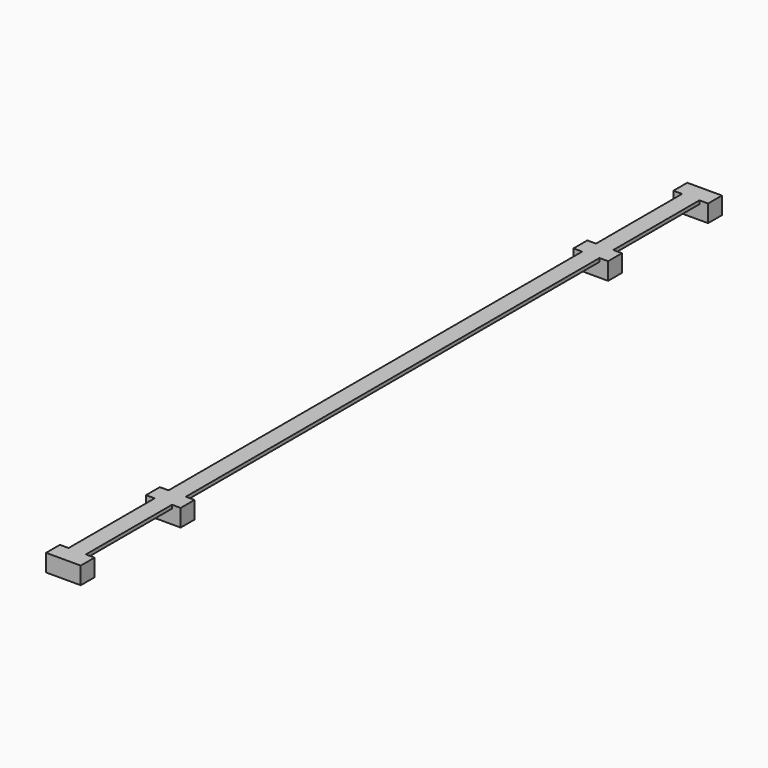
from build123d import *

# Parameters (mm, degrees)
SKETCH_W     = 4
SKETCH_H     = 0.8
PAD_DEPTH    = 185
SKETCH002_W  = 8
SKETCH002_H  = 4
PAD001_DEPTH = 4


with BuildPart() as part:
    # Sketch → Pad (new body)
    with BuildSketch(Plane.XZ):
        Rectangle(SKETCH_W, SKETCH_H)
    extrude(amount=PAD_DEPTH)

    # Sketch002 (on Face4 of Pad) → Pad001 (join)
    with BuildSketch(Plane(origin=(0, 0, 0.4), x_dir=(-1, 0, 0), z_dir=(0, 0, 1))):
        with Locations((0, 183)):
            Rectangle(SKETCH002_W, SKETCH002_H)
        with Locations((0, 154.166667)):
            Rectangle(SKETCH002_W, SKETCH002_H)
        with Locations((0, 30.833333)):
            Rectangle(SKETCH002_W, SKETCH002_H)
        with Locations((0, 2)):
            Rectangle(SKETCH002_W, SKETCH002_H)
    extrude(amount=-PAD001_DEPTH)


solid = part.part
